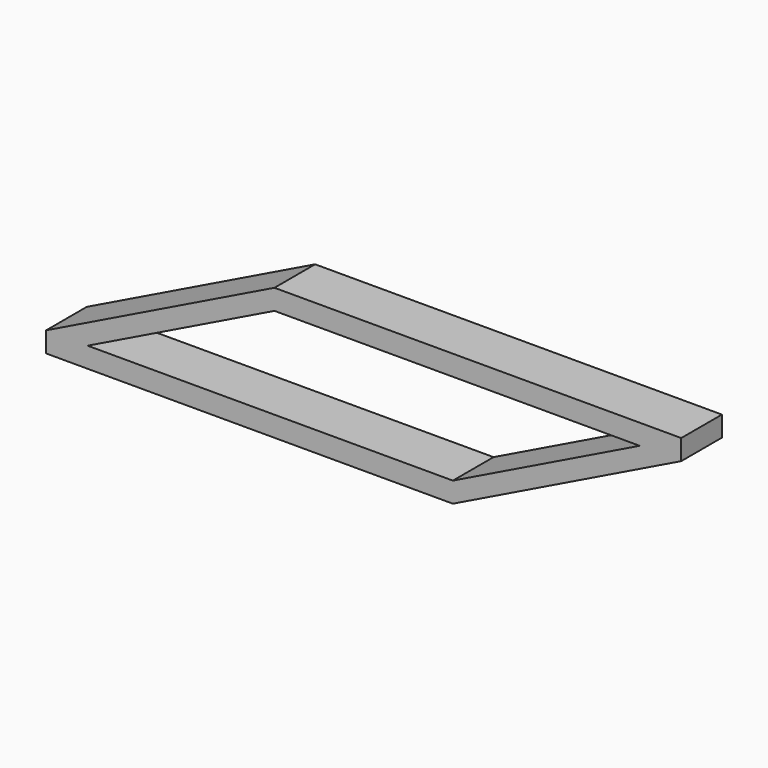
from build123d import *

# Parameters (mm, degrees)
F1_DEPTH = 25.4


with BuildPart() as f1:
    # F0 (on Front) → F1 (new body)
    with BuildSketch(Plane.XZ):
        Polygon((-101.6, -5.08), (101.6, -5.08), (101.6, 5.08), (-80.834732, 5.08), align=None)
        Polygon((101.6, 5.08), (101.6, -5.08), (215.677269, 50.735559), (194.912001, 50.735559), align=None)
        Polygon((-101.6, 5.08), (-101.6, -5.08), (-80.834732, 5.08), align=None)
        Polygon((194.912001, 50.735559), (215.677269, 50.735559), (215.677269, 60.895559), align=None)
        Polygon((12.477269, 60.895559), (-101.6, 5.08), (-80.834732, 5.08), (12.477269, 50.735559), align=None)
        Polygon((12.477269, 50.735559), (194.912001, 50.735559), (215.677269, 60.895559), (12.477269, 60.895559), align=None)
    extrude(amount=F1_DEPTH)


solid = f1.part
